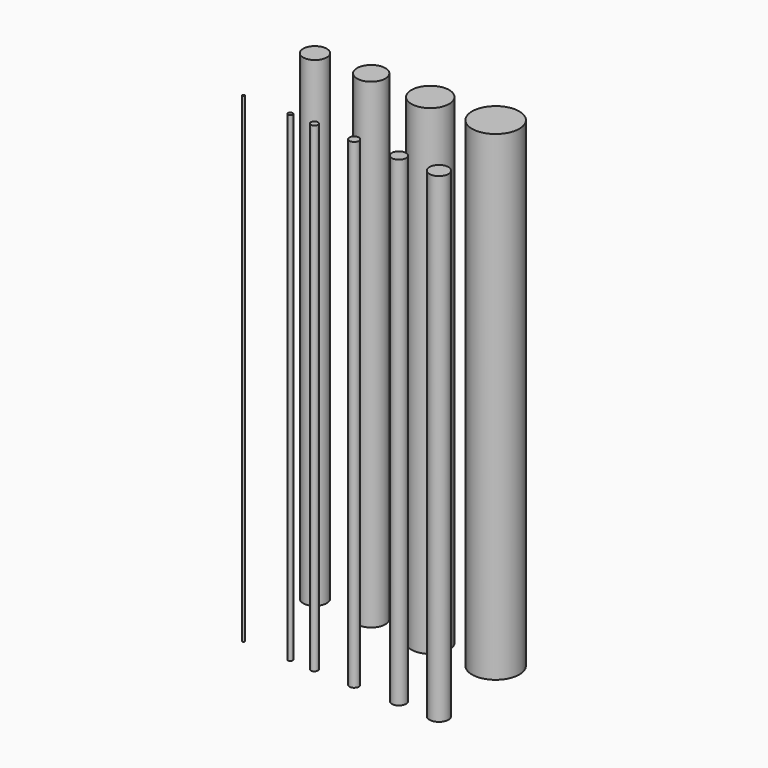
from build123d import *

# Parameters (mm, degrees)
F0_R     = 0.25
F0_R_2   = 0.5
F0_R_3   = 0.75
F0_R_4   = 1
F0_R_5   = 1.5
F0_R_6   = 2
F0_R_7   = 2.5
F0_R_8   = 3
F0_R_9   = 5
F0_R_10  = 4
F1_DEPTH = 101.6


with BuildPart() as f1:
    # F0 (on Top) → F1 (new body)
    with BuildSketch(Plane.XY):
        with Locations((26.994444, 14.364139)):
            Circle(F0_R)
        with Locations((37.116263, 14.049842)):
            Circle(F0_R_2)
        with Locations((42.381138, 13.825633)):
            Circle(F0_R_3)
        with Locations((51.02047, 13.557369)):
            Circle(F0_R_4)
        with Locations((60.434137, 13.61086)):
            Circle(F0_R_5)
        with Locations((68.947285, 13.550774)):
            Circle(F0_R_6)
        with Locations((26.721681, 33.551827)):
            Circle(F0_R_7)
        with Locations((38.504444, 33.696607)):
            Circle(F0_R_8)
        with Locations((64.989597, 33.486988)):
            Circle(F0_R_9)
        with Locations((51.399637, 33.194065)):
            Circle(F0_R_10)
    extrude(amount=F1_DEPTH)


solid = f1.part
